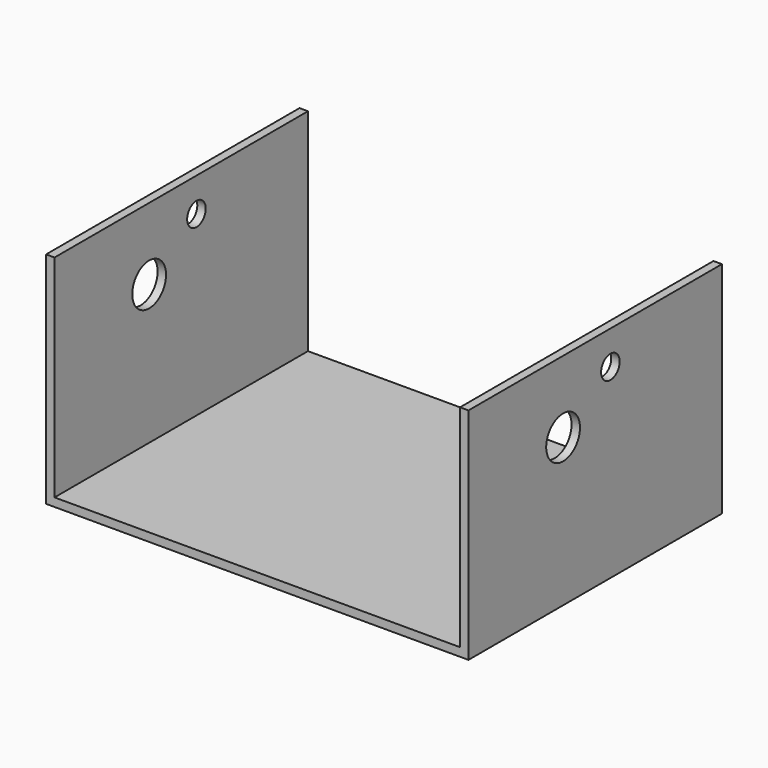
from build123d import *

# Parameters (mm, degrees)
F0_W     = 100
F0_H     = 75
F1_DEPTH = 2
F2_W     = 2
F2_H     = 75
F3_DEPTH = 50
F4_R     = 5
F4_R_2   = 2.75
F5_DEPTH = 100


with BuildPart() as f1:
    # F0 (on Top) → F1 (new body)
    with BuildSketch(Plane.XY):
        with Locations((-50, 37.5)):
            Rectangle(F0_W, F0_H)
    extrude(amount=F1_DEPTH)

    # F2 (on face) → F3 (join)
    with BuildSketch(Plane.XY.offset(2)):
        with Locations((-99, 37.5)):
            Rectangle(F2_W, F2_H)
        with Locations((-1, 37.5)):
            Rectangle(F2_W, F2_H)
    extrude(amount=F3_DEPTH)

    # F4 (on face) → F5 (cut)
    with BuildSketch(Plane.YZ):
        with Locations((28, 35)):
            Circle(F4_R)
        with Locations((42, 44)):
            Circle(F4_R_2)
    extrude(amount=-F5_DEPTH, mode=Mode.SUBTRACT)


solid = f1.part
